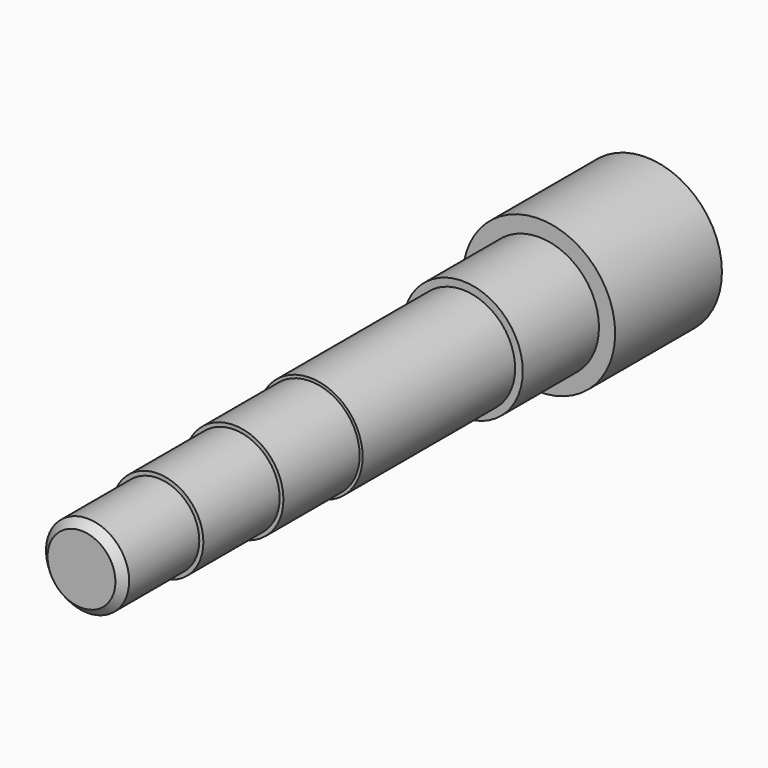
from build123d import *

# Parameters (mm, degrees)
F0_R      = 20
F1_DEPTH  = 35
F3_R      = 15.75
F4_DEPTH  = 25
F6_R      = 13.75
F7_DEPTH  = 50
F8_R      = 12.975
F9_DEPTH  = 25
F10_R     = 11.975
F11_DEPTH = 25
F12_R     = 10.905
F13_DEPTH = 25
F14_SIZE  = 2


with BuildPart() as f1:
    # F0 (on Front) → F1 (new body)
    with BuildSketch(Plane.XZ):
        Circle(F0_R)
    extrude(amount=F1_DEPTH)

    # F3 (on offset) → F4 (join)
    with BuildSketch(Plane.XZ.offset(35)):
        Circle(F3_R)
    extrude(amount=F4_DEPTH)

    # F6 (on offset) → F7 (join)
    with BuildSketch(Plane.XZ.offset(60)):
        Circle(F6_R)
    extrude(amount=F7_DEPTH)

    # F8 (on face) → F9 (join)
    with BuildSketch(Plane.XZ.offset(110)):
        Circle(F8_R)
    extrude(amount=F9_DEPTH)

    # F10 (on face) → F11 (join)
    with BuildSketch(Plane.XZ.offset(135)):
        Circle(F10_R)
    extrude(amount=F11_DEPTH)

    # F12 (on face) → F13 (join)
    with BuildSketch(Plane.XZ.offset(160)):
        Circle(F12_R)
    extrude(amount=F13_DEPTH)

    # F14
    f14_edges = [f1.edges().sort_by_distance(p)[0] for p in [
        (-10.905, -185, 0),
    ]]
    chamfer(f14_edges, length=F14_SIZE)


solid = f1.part
